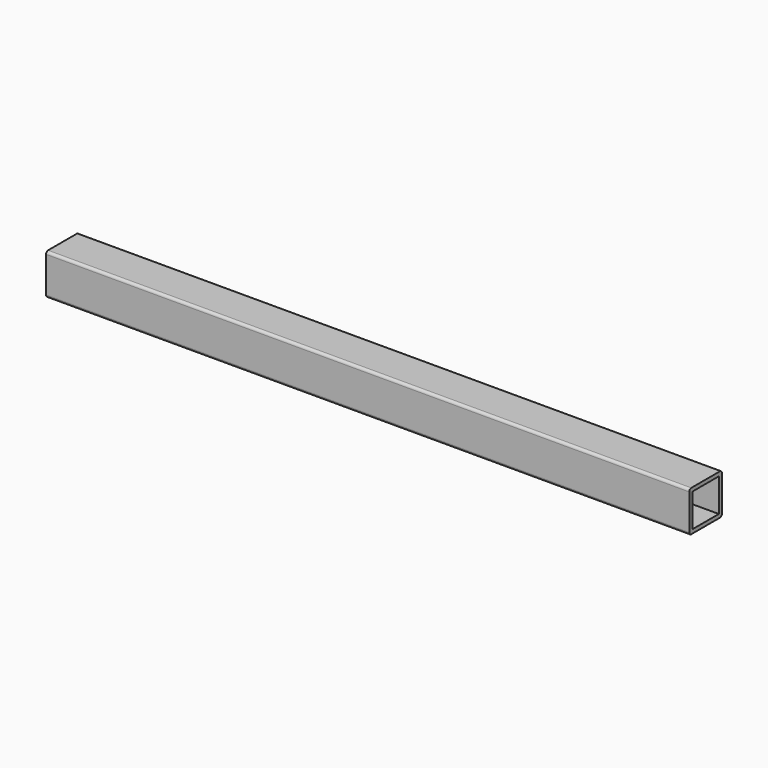
from build123d import *

# Parameters (mm, degrees)
F0_W     = 41.275
F0_H     = 41.275
F1_DEPTH = 400.05


with BuildPart() as f1:
    # F0 (on Right) → F1 (new body, symmetric)
    with BuildSketch(Plane.YZ):
        with BuildLine():
            ThreePointArc((25.4, 22.225), (24.470064, 24.470064), (22.225, 25.4))
            Line((22.225, 25.4), (-22.225, 25.4))
            ThreePointArc((-22.225, 25.4), (-24.470064, 24.470064), (-25.4, 22.225))
            Line((-25.4, 22.225), (-25.4, -22.225))
            ThreePointArc((-25.4, -22.225), (-24.470064, -24.470064), (-22.225, -25.4))
            Line((-22.225, -25.4), (22.225, -25.4))
            ThreePointArc((22.225, -25.4), (24.470064, -24.470064), (25.4, -22.225))
            Line((25.4, -22.225), (25.4, 22.225))
        make_face()
        Rectangle(F0_W, F0_H, mode=Mode.SUBTRACT)
    extrude(amount=F1_DEPTH, both=True)


solid = f1.part
